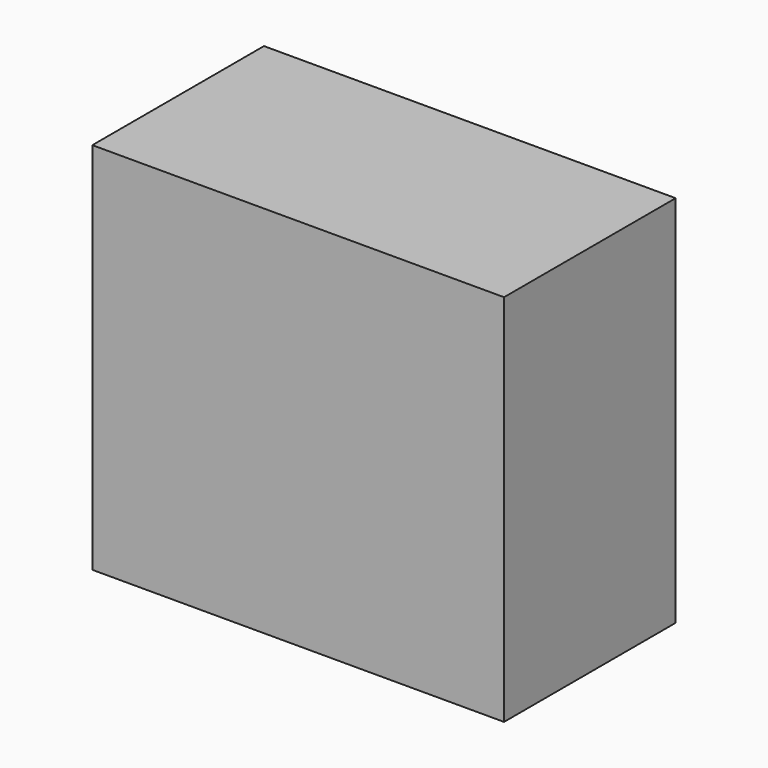
from build123d import *

# Parameters (mm, degrees)
F0_W     = 199.3691921234
F0_H     = 80.7386883534
F1_DEPTH = 103.886
F2_DEPTH = 25.4
F4_DEPTH = 74.93


with BuildPart() as f1:
    # F0 (on Front) → F1 (new body)
    with BuildSketch(Plane.XZ):
        with Locations((0, -35.5599995237)):
            Rectangle(F0_W, F0_H)
    extrude(amount=F1_DEPTH)

    # F2 (add): a face of the model
    f2_faces = [f1.faces().sort_by_distance(p)[0] for p in [
        (0, -51.943, -75.9293437004),
    ]]
    extrude(f2_faces, amount=F2_DEPTH)

    # F4 (add): a face of the model
    f4_faces = [f1.faces().sort_by_distance(p)[0] for p in [
        (0, -51.943, -101.3293437004),
    ]]
    extrude(f4_faces, amount=F4_DEPTH)


solid = f1.part
